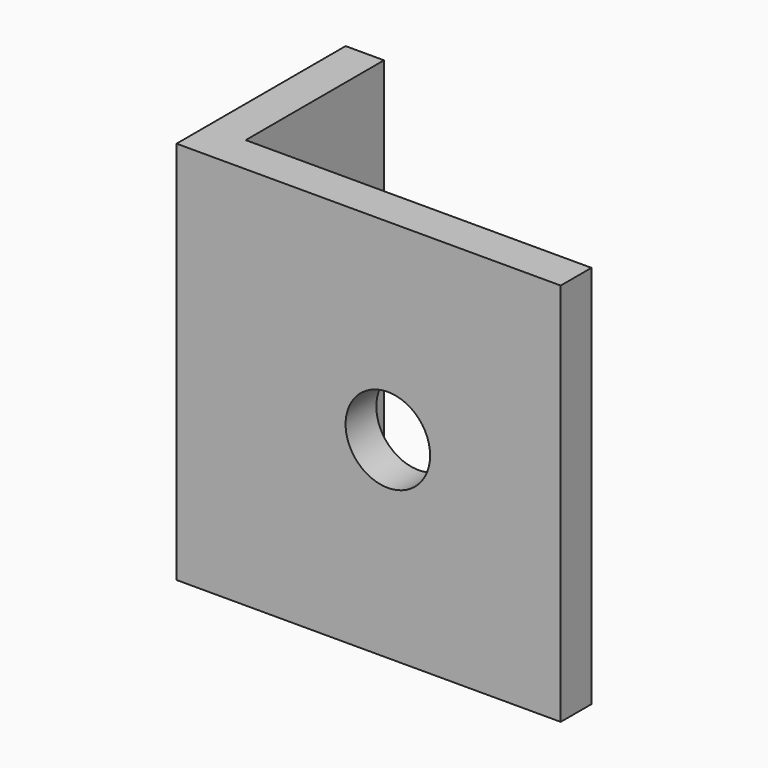
from build123d import *

# Parameters (mm, degrees)
F1_DEPTH = 20
F3_D     = 4.4
F5_D     = 3.3


with BuildPart() as f1:
    # F0 (on Top) → F1 (new body)
    with BuildSketch(Plane.XY):
        Polygon((0, 11), (0, 0), (20, 0), (20, 2), (2, 2), (2, 11), align=None)
    extrude(amount=F1_DEPTH)

    # F3 (through all)
    with Locations(Plane(origin=(0, 2, 0), x_dir=(-1, 0, 0), z_dir=(0, 1, 0))):
        with Locations((-11, 10)):
            Hole(F3_D / 2)

    # F5 (through all)
    with Locations(Plane(origin=(0, 0, 0), x_dir=(0, -1, 0), z_dir=(-1, 0, 0))):
        with Locations((-5.5, 10)):
            Hole(F5_D / 2)


solid = f1.part
